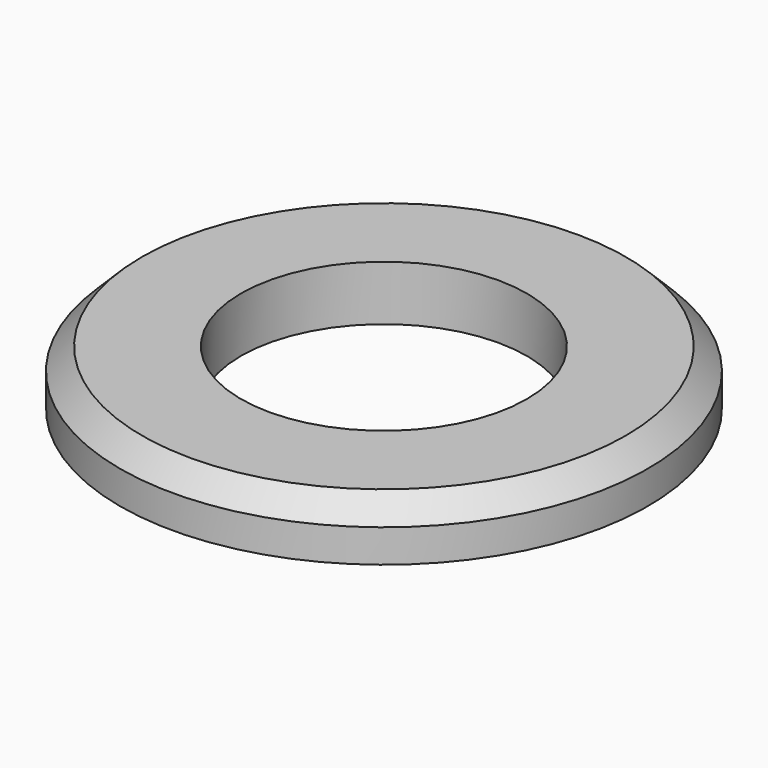
from build123d import *


with BuildPart() as part:
    # Sketch → Revolution (revolve)
    with BuildSketch(Plane.YZ):
        Polygon((6.5, 0), (12, 0), (12, 1.5), (11, 2.5), (6.5, 2.5), align=None)
    revolve(axis=Axis((0, 0, 0), (0, 0, 1)))


solid = part.part
